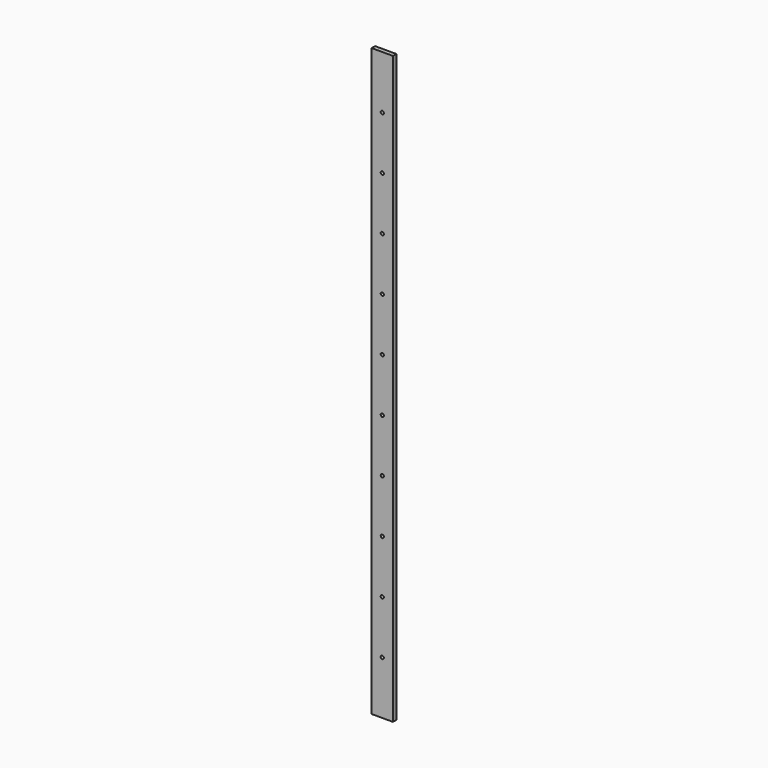
from build123d import *

# Parameters (mm, degrees)
F0_W     = 20
F0_H     = 550
F1_DEPTH = 4
F2_R     = 1.5
F3_DEPTH = 25


with BuildPart() as f1:
    # F0 (on Front) → F1 (new body)
    with BuildSketch(Plane.XZ):
        with Locations((-57.644464, -2.209347)):
            Rectangle(F0_W, F0_H)
    extrude(amount=F1_DEPTH)

    # F2 (on face) → F3 (cut)
    with BuildSketch(Plane.XZ.offset(4)):
        with Locations((-32.644464, 172.790653)):
            Circle(F2_R)
        with Locations((-32.644464, 122.790653)):
            Circle(F2_R)
        with Locations((-57.644464, 122.790653)):
            Circle(F2_R)
        with Locations((-7.644464, 222.790653)):
            Circle(F2_R)
        with Locations((-7.644464, 172.790653)):
            Circle(F2_R)
        with Locations((-7.644464, 122.790653)):
            Circle(F2_R)
        with Locations((-57.644464, 172.790653)):
            Circle(F2_R)
        with Locations((-32.644464, 222.790653)):
            Circle(F2_R)
        with Locations((-57.644464, 222.790653)):
            Circle(F2_R)
        with Locations((-57.644464, -27.209347)):
            Circle(F2_R)
        with Locations((-32.644464, -77.209347)):
            Circle(F2_R)
        with Locations((-57.644464, -127.209347)):
            Circle(F2_R)
        with Locations((-57.644464, -77.209347)):
            Circle(F2_R)
        with Locations((-57.644464, -227.209347)):
            Circle(F2_R)
        with Locations((-57.644464, 72.790653)):
            Circle(F2_R)
        with Locations((-57.644464, 22.790653)):
            Circle(F2_R)
        with Locations((-57.644464, -177.209347)):
            Circle(F2_R)
        with Locations((-32.644464, -27.209347)):
            Circle(F2_R)
        with Locations((-32.644464, 72.790653)):
            Circle(F2_R)
        with Locations((-32.644464, 22.790653)):
            Circle(F2_R)
        with Locations((-32.644464, -127.209347)):
            Circle(F2_R)
        with Locations((-7.644464, -227.209347)):
            Circle(F2_R)
        with Locations((-32.644464, -177.209347)):
            Circle(F2_R)
        with Locations((-7.644464, -177.209347)):
            Circle(F2_R)
        with Locations((-32.644464, -227.209347)):
            Circle(F2_R)
        with Locations((-7.644464, -127.209347)):
            Circle(F2_R)
        with Locations((-7.644464, -77.209347)):
            Circle(F2_R)
        with Locations((-7.644464, -27.209347)):
            Circle(F2_R)
        with Locations((-7.644464, 22.790653)):
            Circle(F2_R)
        with Locations((-7.644464, 72.790653)):
            Circle(F2_R)
    extrude(amount=-F3_DEPTH, mode=Mode.SUBTRACT)


solid = f1.part
